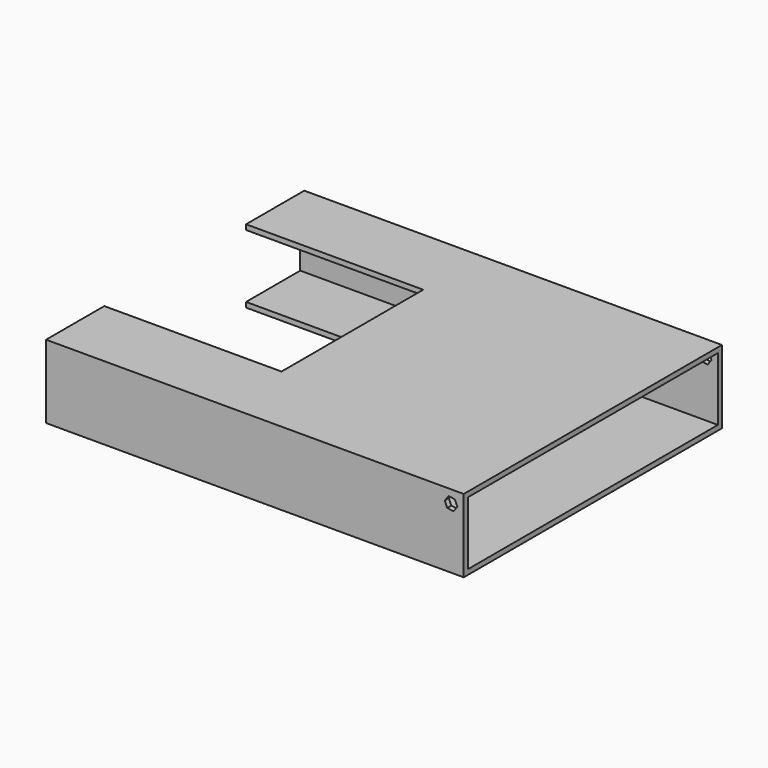
from build123d import *

# Parameters (mm, degrees)
F0_W     = 419.1
F0_H     = 73.66
F1_DEPTH = 323.85
F2_W     = 313.69
F2_H     = 63.5
F3_DEPTH = 304.8
F4_W     = 313.69
F4_H     = 63.5
F5_DEPTH = 109.22
F7_DEPTH = 323.85
F8_W     = 177.8
F8_H     = 177.8
F9_DEPTH = 73.661


with BuildPart() as f1:
    # F0 (on Front) → F1 (new body)
    with BuildSketch(Plane.XZ):
        with Locations((-209.55, 36.83)):
            Rectangle(F0_W, F0_H)
    extrude(amount=F1_DEPTH)

    # F2 (on face) → F3 (cut)
    with BuildSketch(Plane(origin=(-419.1, 0, 0), x_dir=(0, -1, 0), z_dir=(-1, 0, 0))):
        with Locations((161.925, 36.83)):
            Rectangle(F2_W, F2_H)
    extrude(amount=-F3_DEPTH, mode=Mode.SUBTRACT)

    # F4 (on face) → F5 (cut)
    with BuildSketch(Plane.YZ):
        with Locations((-161.925, 36.83)):
            Rectangle(F4_W, F4_H)
    extrude(amount=-F5_DEPTH, mode=Mode.SUBTRACT)

    # F6 (on face) → F7 (cut, through all)
    with BuildSketch(Plane.XZ):
        Polygon((-19.000666, 61.750006), (-16.534498, 55.898466), (-10.233832, 55.10846), (-6.399334, 60.169994), (-8.865502, 66.021534), (-15.166168, 66.81154), align=None)
    extrude(amount=F7_DEPTH, mode=Mode.SUBTRACT)

    # F8 (on face) → F9 (cut, through all)
    with BuildSketch(Plane(origin=(0, 0, 0), x_dir=(1, 0, 0), z_dir=(0, 0, -1))):
        with Locations((-330.2, 161.925)):
            Rectangle(F8_W, F8_H)
    extrude(amount=-F9_DEPTH, mode=Mode.SUBTRACT)


solid = f1.part
